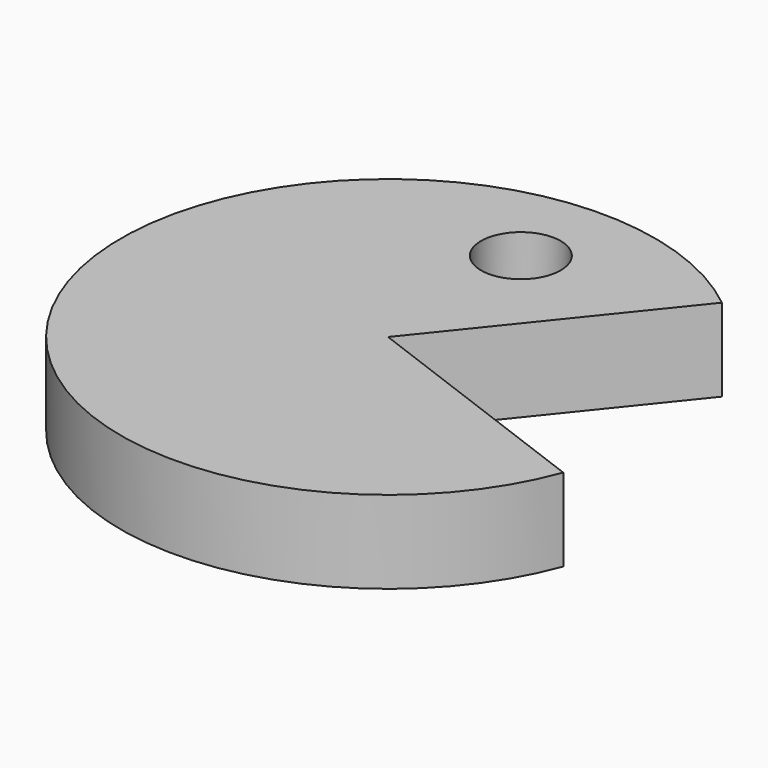
from build123d import *

# Parameters (mm, degrees)
F0_R     = 6.114105
F1_DEPTH = 12.7


with BuildPart() as f1:
    # F0 (on Top) → F1 (new body)
    with BuildSketch(Plane.XY):
        with BuildLine():
            Line((0, 0), (25.67469, 31.950034))
            ThreePointArc((25.67469, 31.950034), (-39.526056, -10.848285), (38.387017, -14.367717))
            Line((38.387017, -14.367717), (0, 0))
        make_face()
        with Locations((-0.759587, 26.416805)):
            Circle(F0_R, mode=Mode.SUBTRACT)
    extrude(amount=F1_DEPTH)


solid = f1.part
